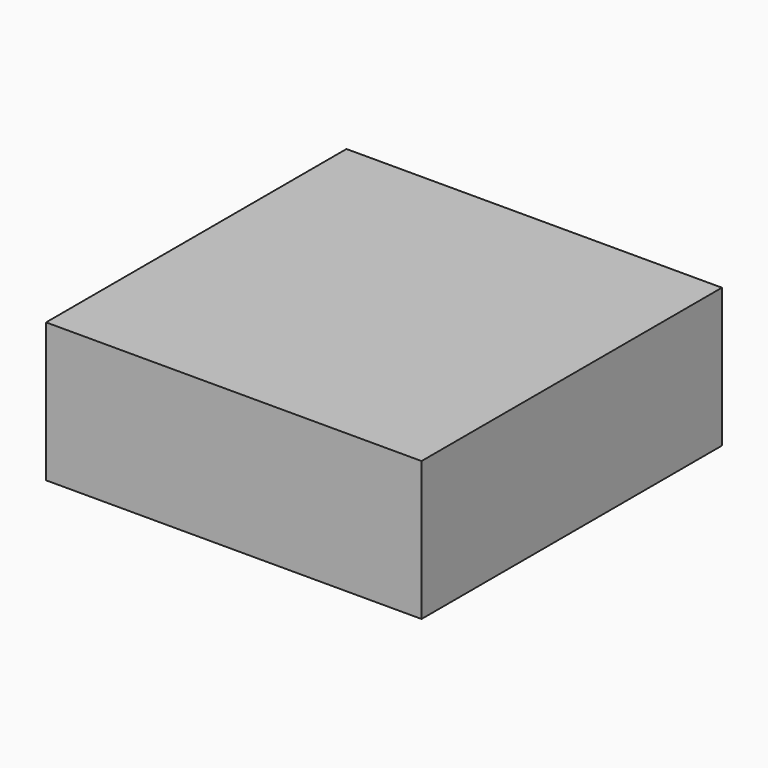
from build123d import *

# Parameters (mm, degrees)
SKETCH_W      = 135
SKETCH_H      = 135
EXTRUDE_DEPTH = 50


with BuildPart() as part:
    # Sketch → Extrude (new body)
    with BuildSketch(Plane.XY):
        Rectangle(SKETCH_W, SKETCH_H)
    extrude(amount=EXTRUDE_DEPTH)


solid = part.part
